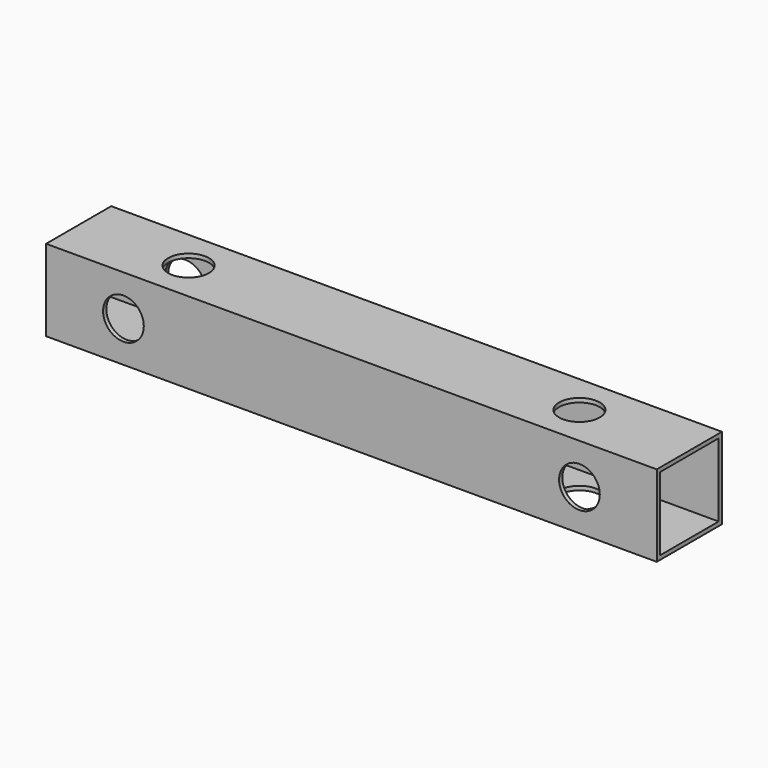
from build123d import *

# Parameters (mm, degrees)
F0_W          = 10
F0_H          = 10
F0_W_2        = 9
F0_H_2        = 9
F1_DEPTH      = 37.5
F1_DEPTH_BACK = 37.5
F2_R          = 2.5
F3_DEPTH      = 10
F4_R          = 2.5
F5_DEPTH      = 10


with BuildPart() as f1:
    # F0 (on Right) → F1 (new body, two sides)
    with BuildSketch(Plane.YZ) as f1_sk:
        Rectangle(F0_W, F0_H)
        Rectangle(F0_W_2, F0_H_2, mode=Mode.SUBTRACT)
    extrude(amount=F1_DEPTH)
    extrude(f1_sk.sketch, amount=-F1_DEPTH_BACK)

    # F2 (on face) → F3 (cut)
    with BuildSketch(Plane.XY.offset(5)):
        with Locations((-24, 0)):
            Circle(F2_R)
        with Locations((24, 0)):
            Circle(F2_R)
    extrude(amount=-F3_DEPTH, mode=Mode.SUBTRACT)

    # F4 (on face) → F5 (cut)
    with BuildSketch(Plane.XZ.offset(5)):
        with Locations((-28, 0)):
            Circle(F4_R)
        with Locations((28, 0)):
            Circle(F4_R)
    extrude(amount=-F5_DEPTH, mode=Mode.SUBTRACT)


solid = f1.part
